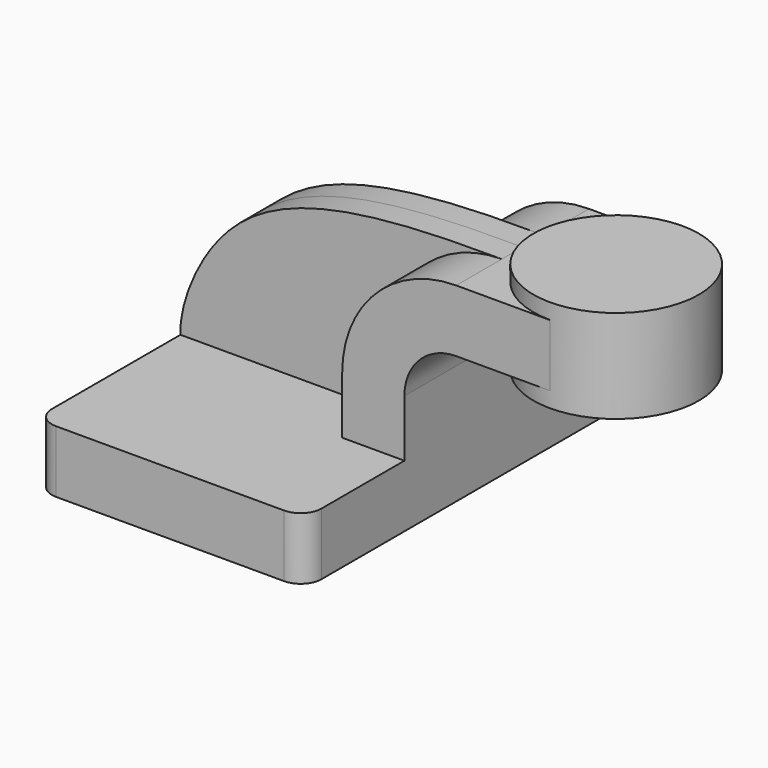
from build123d import *

# Parameters (mm, degrees)
F1_DEPTH = 63.5
F0_W     = 25.4674297452
F0_H     = 19.05
F2_DEPTH = 25.4
F3_DEPTH = 7.9375
F5_R     = 6.35


with BuildPart() as f1:
    # F0 (on Front) → F1 (new body, symmetric)
    with BuildSketch(Plane.XZ):
        Polygon((22.225, 9.525), (-41.275, 9.525), (-41.275, -9.525), (41.275, -9.525), (41.275, 9.525), align=None)
    extrude(amount=F1_DEPTH, both=True)

    # F0 (on Front) → F2 (join, symmetric)
    with BuildSketch(Plane.XZ):
        with BuildLine():
            Line((22.225, 27.0002), (22.225, 9.525))
            Line((22.225, 9.525), (41.275, 9.525))
            Line((41.275, 9.525), (41.275, 27.0002))
            ThreePointArc((41.275, 27.0002), (45.9246798487, 38.2255201513), (57.15, 42.8752))
            Line((57.15, 42.8752), (60.325, 42.8752))
            Line((60.325, 42.8752), (60.325, 61.9252))
            Line((60.325, 61.9252), (57.15, 61.9252))
            ThreePointArc((57.15, 61.9252), (32.4542956671, 51.6959043329), (22.225, 27.0002))
        make_face()
        with Locations((73.0587148726, 52.4002)):
            Rectangle(F0_W, F0_H)
    extrude(amount=F2_DEPTH, both=True)

    # F0 (on Front) → F3 (join, symmetric)
    with BuildSketch(Plane.XZ):
        with BuildLine():
            add(Edge.make_bspline(
                [(57.15, 61.9252), (15.1281916878, 62.2740810515), (-27.3216856892, 55.7221643058), (-41.6932850244, 18.0006596408), (-41.275, 9.525)],
                knots=[0, 0, 0, 0, 0.6030423214, 1, 1, 1, 1], degree=3))
            Line((-41.275, 9.525), (22.225, 9.525))
            Line((22.225, 9.525), (22.225, 27.0002))
            ThreePointArc((22.225, 27.0002), (32.4542956671, 51.6959043329), (57.15, 61.9252))
        make_face()
    extrude(amount=F3_DEPTH, both=True)

    # F0 (on Front) → F4 (revolve)
    with BuildSketch(Plane.XZ):
        Polygon((85.7924297452, 66.675), (85.7924297452, 61.9252), (85.7924297452, 42.8752), (85.7924297452, 38.1), (111.125, 38.1), (111.125, 66.675), align=None)
    revolve(axis=Axis((85.7924297452, 0, 52.3875), (0, 0, 1)))

    # F5
    f5_edges = [f1.edges().sort_by_distance(p)[0] for p in [
        (-41.275, -63.5, 0),
        (41.275, -63.5, 0),
        (41.275, 63.5, 0),
        (-41.275, 63.5, 0),
    ]]
    fillet(f5_edges, radius=F5_R)


solid = f1.part
